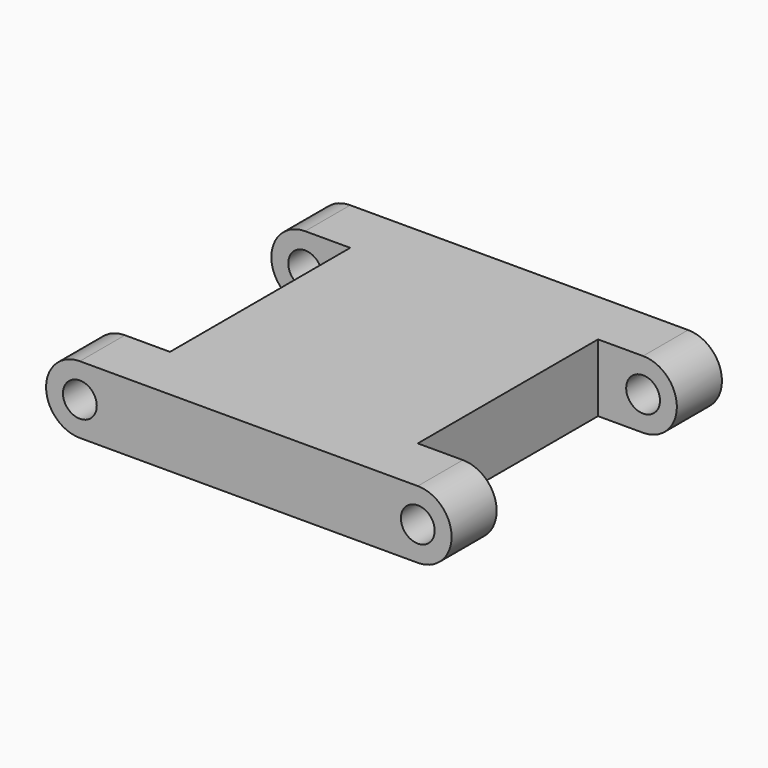
from build123d import *

# Parameters (mm, degrees)
PAD_DEPTH            = 15
SKETCH001_W          = 7
SKETCH001_H          = 20
POCKET_DEPTH         = 97.489094
POCKET_DEPTH_BACK    = 97.489094
SKETCH002_R          = 1.5
POCKET001_DEPTH      = 109.489094
POCKET001_DEPTH_BACK = 109.489094


with BuildPart() as part:
    # Sketch (on DatumPlane) → Pad (new body, symmetric)
    with BuildSketch(Plane.XZ):
        with BuildLine():
            ThreePointArc((-15, 3), (-18, 0), (-15, -3))
            Line((-15, -3), (15, -3))
            ThreePointArc((15, -3), (18, 0), (15, 3))
            Line((-15, 3), (15, 3))
        make_face()
    extrude(amount=PAD_DEPTH, both=True)

    # Sketch001 (on DatumPlane) → Pocket (cut, two sides)
    with BuildSketch(Plane.XY) as pocket_sk:
        with Locations((-14.5, 0)):
            Rectangle(SKETCH001_W, SKETCH001_H)
    pocket = extrude(amount=-POCKET_DEPTH, mode=Mode.SUBTRACT) + extrude(pocket_sk.sketch, amount=POCKET_DEPTH_BACK, mode=Mode.SUBTRACT)

    # Mirrored: Pocket across YZ
    add(pocket.mirror(Plane.YZ), mode=Mode.SUBTRACT)

    # Sketch002 (on DatumPlane) → Pocket001 (cut, two sides)
    with BuildSketch(Plane.XZ) as pocket001_sk:
        with Locations((-15, 0)):
            Circle(SKETCH002_R)
    pocket001 = extrude(amount=-POCKET001_DEPTH, mode=Mode.SUBTRACT) + extrude(pocket001_sk.sketch, amount=POCKET001_DEPTH_BACK, mode=Mode.SUBTRACT)

    # Mirrored001: Pocket001 across YZ
    add(pocket001.mirror(Plane.YZ), mode=Mode.SUBTRACT)


solid = part.part
